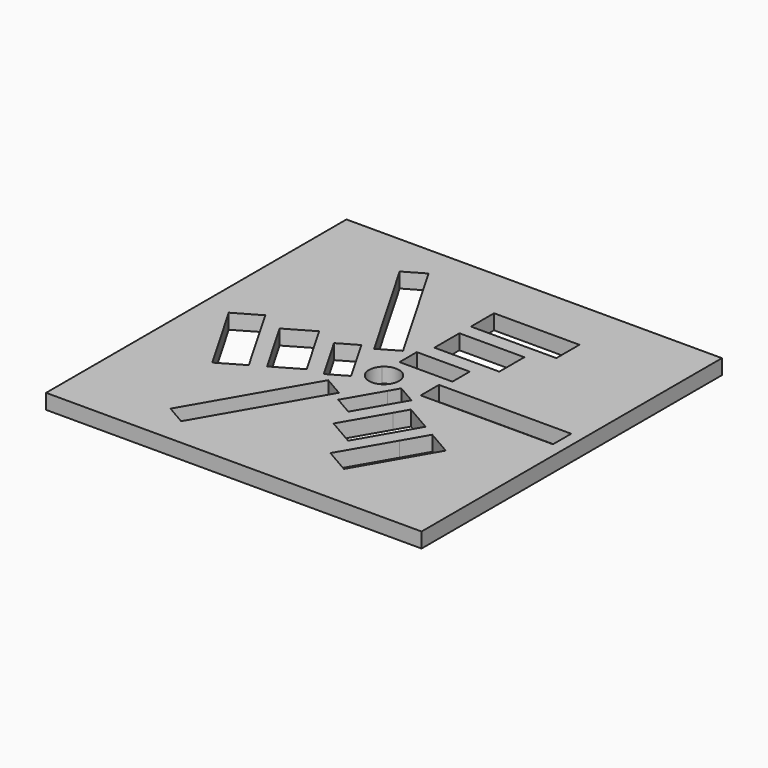
from build123d import *

# Parameters (mm, degrees)
F1_W     = 10.5687566102
F1_H     = 4.3235812336
F1_W_2   = 12.9707455635
F1_H_2   = 6.2451735139
F1_W_3   = 26.4218887314
F1_H_3   = 4.5637749135
F1_W_4   = 17.0541275293
F1_H_4   = 5.7647768408
F2_DEPTH = 3


with BuildPart() as f2:
    # F1 (on face) → F2 (new body)
    with BuildSketch(Plane.XY):
        with BuildLine():
            Line((0, -37.5), (0, 0))
            Line((0, 0), (-37.5, 0))
            ThreePointArc((-37.5, 0), (-10.9834957055, -10.9834957055), (0, -37.5))
        make_face()
        with BuildLine():
            ThreePointArc((-64.0165042945, -10.9834957055), (-51.8506287137, -2.8545175308), (-37.5, 0))
            Line((-37.5, 0), (-75, 0))
            Line((-75, 0), (-64.0165042945, -10.9834957055))
        make_face()
        with BuildLine():
            ThreePointArc((0, -37.5), (-10.9834957055, -10.9834957055), (-37.5, 0))
            ThreePointArc((-37.5, 0), (-51.8506287137, -2.8545175308), (-64.0165042945, -10.9834957055))
            Line((-64.0165042945, -10.9834957055), (-45.3621843147, -29.6378156853))
            Line((-45.3621843147, -29.6378156853), (-57.5412176208, -8.5431112121))
            Line((-57.5412176208, -8.5431112121), (-53.5888726085, -6.2612237553))
            Line((-53.5888726085, -6.2612237553), (-40.3779282428, -29.1432506127))
            Line((-40.3779282428, -29.1432506127), (-43.8513616657, -31.1486383343))
            Line((-43.8513616657, -31.1486383343), (-39.6213203436, -35.3786796564))
            ThreePointArc((-39.6213203436, -35.3786796564), (-36.3519497029, -34.7283614025), (-34.5, -37.5))
            ThreePointArc((-34.5, -37.5), (-34.7283614025, -38.6480502971), (-35.3786796564, -39.6213203436))
            Line((-35.3786796564, -39.6213203436), (-33.8107887229, -41.1892112771))
            Line((-33.8107887229, -41.1892112771), (-32.6696971218, -39.212782648))
            Line((-32.6696971218, -39.212782648), (-28.9253659382, -41.3745732648))
            Line((-28.9253659382, -41.3745732648), (-30.6457075892, -44.3542924108))
            Line((-30.6457075892, -44.3542924108), (-28.5356548637, -46.4643451363))
            Line((-28.5356548637, -46.4643451363), (-27.0296449318, -43.8558594177))
            Line((-27.0296449318, -43.8558594177), (-21.6211660178, -46.9784461747))
            Line((-21.6211660178, -46.9784461747), (-23.9638705494, -51.0361294506))
            Line((-23.9638705494, -51.0361294506), (-21.8538164603, -53.1461835397))
            Line((-21.8538164603, -53.1461835397), (-19.1249452287, -48.4196399192))
            Line((-19.1249452287, -48.4196399192), (-14.1325020374, -51.3020283396))
            Line((-14.1325020374, -51.3020283396), (-17.6337069185, -57.3662930815))
            Line((-17.6337069185, -57.3662930815), (-10.9834957055, -64.0165042945))
            ThreePointArc((-10.9834957055, -64.0165042945), (-2.8545175308, -51.8506287137), (0, -37.5))
        make_face()
        with Locations((-33.1474598497, -30.2986530587)):
            Rectangle(F1_W, F1_H, mode=Mode.SUBTRACT)
        with Locations((-30.7454690337, -22.1318900585)):
            Rectangle(F1_W_2, F1_H_2, mode=Mode.SUBTRACT)
        with Locations((-15.6129342504, -36.9041282684)):
            Rectangle(F1_W_3, F1_H_3, mode=Mode.SUBTRACT)
        with Locations((-28.7037780508, -13.2445273921)):
            Rectangle(F1_W_4, F1_H_4, mode=Mode.SUBTRACT)
        with BuildLine():
            Line((0, -75), (0, -37.5))
            ThreePointArc((0, -37.5), (-2.8545175308, -51.8506287137), (-10.9834957055, -64.0165042945))
            Line((-10.9834957055, -64.0165042945), (0, -75))
        make_face()
        with BuildLine():
            Line((-64.0165042945, -10.9834957055), (-75, 0))
            Line((-75, 0), (-75, -37.5))
            ThreePointArc((-75, -37.5), (-72.1454824692, -23.1493712863), (-64.0165042945, -10.9834957055))
        make_face()
        with BuildLine():
            Line((-45.3621843147, -29.6378156853), (-64.0165042945, -10.9834957055))
            ThreePointArc((-64.0165042945, -10.9834957055), (-72.1454824692, -23.1493712863), (-75, -37.5))
            ThreePointArc((-75, -37.5), (-64.0165042945, -64.0165042945), (-37.5, -75))
            ThreePointArc((-37.5, -75), (-23.1493712863, -72.1454824692), (-10.9834957055, -64.0165042945))
            Line((-10.9834957055, -64.0165042945), (-17.6337069185, -57.3662930815))
            Line((-17.6337069185, -57.3662930815), (-22.659565802, -66.0713360193))
            Line((-22.659565802, -66.0713360193), (-27.6520089933, -63.1889475989))
            Line((-27.6520089933, -63.1889475989), (-21.8538164603, -53.1461835397))
            Line((-21.8538164603, -53.1461835397), (-23.9638705494, -51.0361294506))
            Line((-23.9638705494, -51.0361294506), (-28.1065387995, -58.2114413387))
            Line((-28.1065387995, -58.2114413387), (-33.5150177136, -55.0888545817))
            Line((-33.5150177136, -55.0888545817), (-28.5356548637, -46.4643451363))
            Line((-28.5356548637, -46.4643451363), (-30.6457075892, -44.3542924108))
            Line((-30.6457075892, -44.3542924108), (-34.2097442432, -50.5273849756))
            Line((-34.2097442432, -50.5273849756), (-37.9540754269, -48.3655943588))
            Line((-37.9540754269, -48.3655943588), (-33.8107887229, -41.1892112771))
            Line((-33.8107887229, -41.1892112771), (-35.3786796564, -39.6213203436))
            ThreePointArc((-35.3786796564, -39.6213203436), (-39.6213203436, -39.6213203436), (-39.6213203436, -35.3786796564))
            Line((-39.6213203436, -35.3786796564), (-43.8513616657, -31.1486383343))
            Line((-43.8513616657, -31.1486383343), (-44.3302732551, -31.4251380694))
            Line((-44.3302732551, -31.4251380694), (-45.3621843147, -29.6378156853))
        make_face()
        Polygon((-43.2981931411, -44.1707336622), (-39.3458481288, -46.452621119), (-52.5567924945, -69.3346479764), (-56.5091375068, -67.0527605196), align=None, mode=Mode.SUBTRACT)
        Polygon((-56.1442129559, -47.9534442683), (-61.1366561472, -50.8358326887), (-69.6637199118, -36.066525009), (-64.6712767205, -33.1841365886), align=None, mode=Mode.SUBTRACT)
        Polygon((-48.2395132527, -43.3896637668), (-53.6479921668, -46.5122505238), (-60.1333649485, -35.2792553598), (-54.7248860345, -32.1566686028), align=None, mode=Mode.SUBTRACT)
        Polygon((-41.3984647234, -40.8267736765), (-45.142795907, -42.9885642933), (-50.4271742121, -33.8357525825), (-46.6828430285, -31.6739619657), align=None, mode=Mode.SUBTRACT)
        with BuildLine():
            Line((-37.5, -75), (0, -75))
            Line((0, -75), (-10.9834957055, -64.0165042945))
            ThreePointArc((-10.9834957055, -64.0165042945), (-23.1493712863, -72.1454824692), (-37.5, -75))
        make_face()
        with BuildLine():
            ThreePointArc((-37.5, -75), (-64.0165042945, -64.0165042945), (-75, -37.5))
            Line((-75, -37.5), (-75, -75))
            Line((-75, -75), (-37.5, -75))
        make_face()
    extrude(amount=F2_DEPTH)


solid = f2.part
